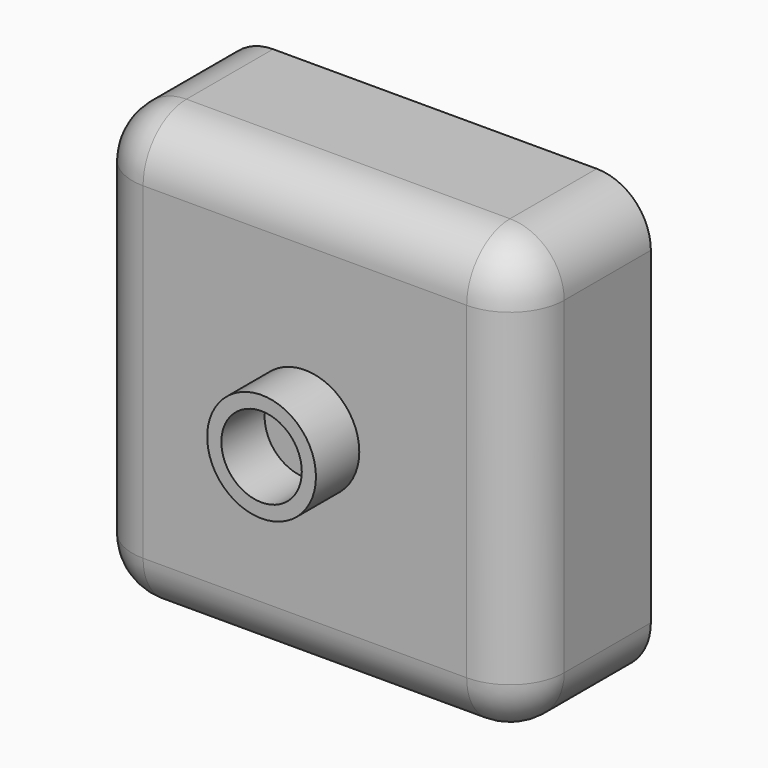
from build123d import *

# Parameters (mm, degrees)
F0_W     = 39.870906
F0_H     = 40.267636
F1_DEPTH = 15
F2_R     = 5
F3_R     = 5.020385
F3_R_2   = 3.713676
F4_DEPTH = 5


with BuildPart() as f1:
    # F0 (on Front) → F1 (new body)
    with BuildSketch(Plane.XZ):
        Rectangle(F0_W, F0_H)
    extrude(amount=F1_DEPTH)

    # F2
    f2_edges = [f1.edges().sort_by_distance(p)[0] for p in [
        (0, -15, -20.133818),
        (19.935453, -15, 0),
        (0, -15, 20.133818),
        (-19.935453, -15, 0),
        (-19.935453, -7.5, -20.133818),
        (-19.935453, -7.5, 20.133818),
        (19.935453, -7.5, -20.133818),
        (19.935453, -7.5, 20.133818),
    ]]
    fillet(f2_edges, radius=F2_R)


with BuildPart() as f4:
    # F3 (on face) → F4 (new body)
    with BuildSketch(Plane.XZ.offset(15)):
        Circle(F3_R)
        Circle(F3_R_2, mode=Mode.SUBTRACT)
    extrude(amount=F4_DEPTH)


solid = Compound([f1.part, f4.part])
